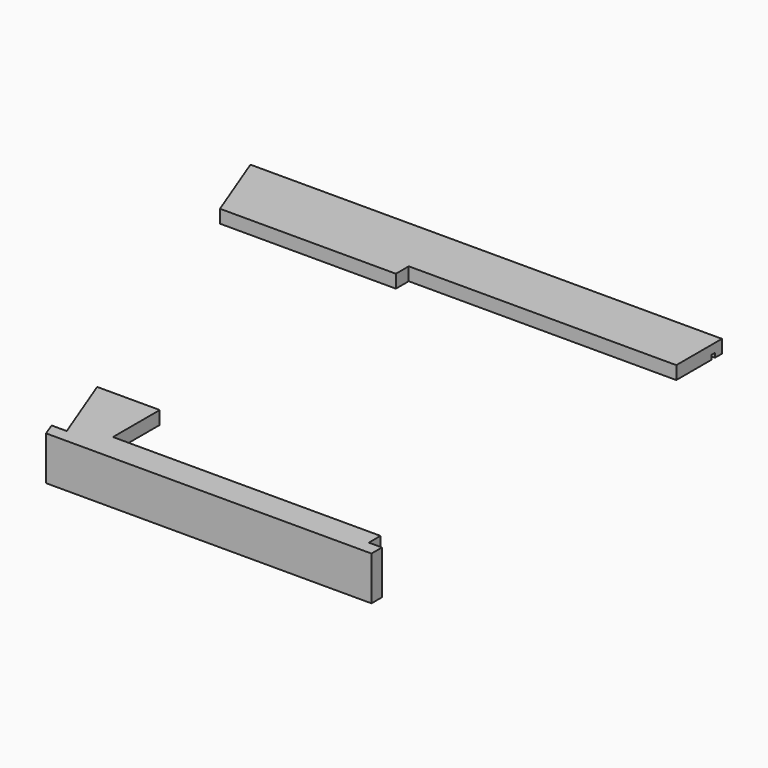
from build123d import *

# Parameters (mm, degrees)
F1_DEPTH      = 18
F2_W          = 640.393632
F2_H          = 6
F3_DEPTH      = 6
F5_DEPTH      = 42
F6_W          = 18
F6_H          = 60
F7_DEPTH      = 18
F7_DEPTH_BACK = 434
F10_DEPTH     = 60
F9_W          = 366
F9_H          = 505.764564
F11_DEPTH     = 18


with BuildPart() as f1:
    # F0 (on Top) → F1 (new body)
    with BuildSketch(Plane.XY):
        Polygon((322.5, 210.882282), (322.5, 310.882282), (-322.5, 310.882282), (-284.113596, 210.882282), align=None)
        Polygon((-83.826946, -310.882282), (322.5, -310.882282), (322.5, -192.882282), (-129.122902, -192.882282), align=None)
    extrude(amount=F1_DEPTH)

    # F2 (on face) → F3 (cut)
    with BuildSketch(Plane(origin=(0, 0, 0), x_dir=(1, 0, 0), z_dir=(0, 0, -1))):
        with Locations((2.303184, -295.882282)):
            Rectangle(F2_W, F2_H)
    extrude(amount=-F3_DEPTH, mode=Mode.SUBTRACT)

    # F4 (on face) → F5 (join)
    with BuildSketch(Plane(origin=(0, 0, 0), x_dir=(1, 0, 0), z_dir=(0, 0, -1))):
        Polygon((322.5, 310.882282), (-83.826946, 310.882282), (-90.736498, 292.882282), (322.5, 292.882282), align=None)
    extrude(amount=F5_DEPTH)

    # F6 (on face) → F7 (join, two sides)
    with BuildSketch(Plane.YZ.offset(322.5)) as f7_sk:
        with Locations((-301.882282, -12)):
            Rectangle(F6_W, F6_H)
    extrude(amount=F7_DEPTH)
    extrude(f7_sk.sketch, amount=-F7_DEPTH_BACK)

    # F8 (on face) → F10 (cut)
    with BuildSketch(Plane.XY.offset(18)):
        Polygon((-104.590447, -310.882282), (-111.5, -292.882282), (-111.5, -310.882282), align=None)
    extrude(amount=-F10_DEPTH, mode=Mode.SUBTRACT)

    # F9 (on face) → F11 (cut)
    with BuildSketch(Plane.XY.offset(18)):
        with Locations((139.5, -20)):
            Rectangle(F9_W, F9_H)
    extrude(amount=-F11_DEPTH, mode=Mode.SUBTRACT)


solid = f1.part
